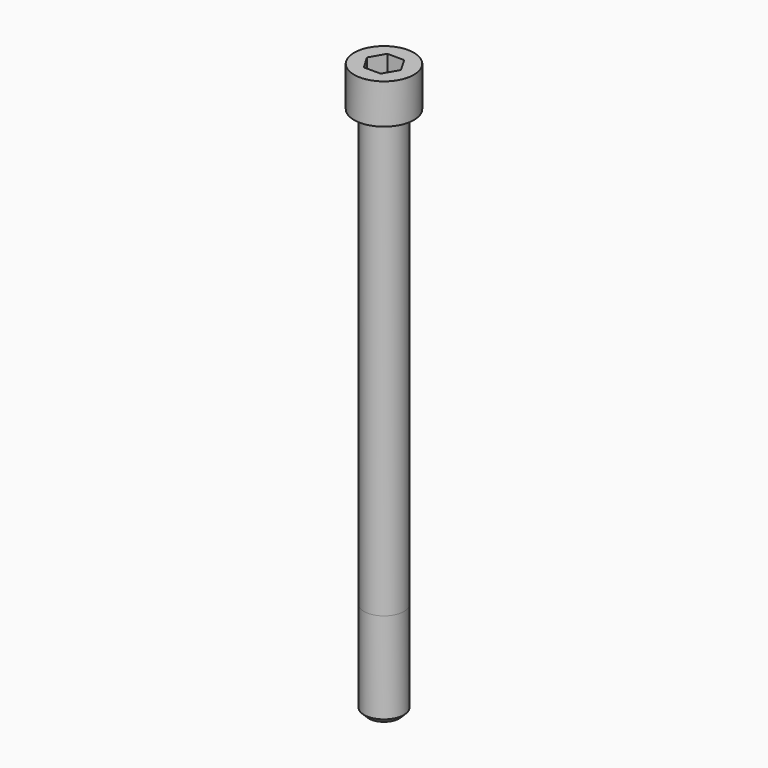
from build123d import *

# Parameters (mm, degrees)
POCKET_DEPTH = 22.15


with BuildPart() as part:
    # Sketch → Revolve (revolve)
    with BuildSketch(Plane.YZ):
        with BuildLine():
            Line((14.999, 0), (22.5, 0))
            Line((22.5, 0), (22.5, 29.97229))
            ThreePointArc((22.5, 29.97229), (22.491884, 29.991884), (22.47229, 30))
            Line((22.47229, 30), (0, 30))
            Line((0, -400), (0, 30))
            Line((11.5, -400), (0, -400))
            Line((15, -396.5), (11.5, -400))
            Line((15, -328), (15, -396.5))
            Line((14.999, 0), (15, -328))
        make_face()
    revolve(axis=Axis((0, 0, 0), (0, 0, 1)))

    # Sketch001 → Pocket (cut)
    with BuildSketch(Plane.XY.offset(30)):
        Polygon((12.788308, 0), (6.394154, 11.075), (-6.394154, 11.075), (-12.788308, 0), (-6.394154, -11.075), (6.394154, -11.075), align=None)
    extrude(amount=-POCKET_DEPTH, mode=Mode.SUBTRACT)


solid = part.part
